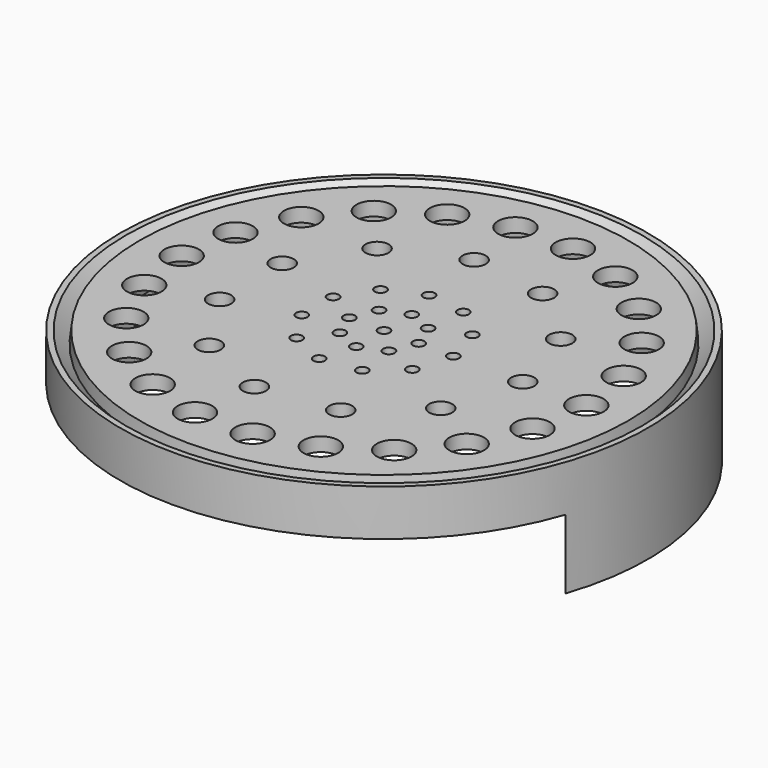
from build123d import *

# Parameters (mm, degrees)
F3_DEPTH = 144.93975
F4_R     = 3.175
F4_R_2   = 6.35
F4_R_3   = 9.525
F5_DEPTH = 63.501


with BuildPart() as f1:
    # F0 (on Front) → F1 (revolve)
    with BuildSketch(Plane.XZ):
        Polygon((-134.863547, 56.873039), (-141.76375, 63.5), (-144.93875, 63.5), (-144.93875, 0), (-137.309231, 0), (-134.987864, 46.427336), (-128.961906, 40.64), (-127.306591, 55.88), (0, 55.88), (0, 63.5), (-134.14375, 63.5), align=None)
    revolve(axis=Axis((0, 0, 31.75), (0, 0, -1)))

    # F2 (on Front) → F3 (cut, through all)
    with BuildSketch(Plane.XZ):
        Polygon((-137.16, 38.1), (-137.16, 2.984619), (-135.404231, 38.1), align=None)
        Polygon((-135.404231, 38.1), (-137.16, 2.984619), (-137.16, 0), (0, 0), (137.16, 0), (137.16, 38.1), (0, 38.1), align=None)
    extrude(amount=F3_DEPTH, mode=Mode.SUBTRACT)

    # F4 (on Top) → F5 (cut, through all)
    with BuildSketch(Plane.XY):
        with Locations((19.05, 0)):
            Circle(F4_R)
        with Locations((13.470384, 13.470384)):
            Circle(F4_R)
        with Locations((0, 19.05)):
            Circle(F4_R)
        with Locations((-13.470384, 13.470384)):
            Circle(F4_R)
        with Locations((-19.05, 0)):
            Circle(F4_R)
        with Locations((-13.470384, -13.470384)):
            Circle(F4_R)
        with Locations((0, -19.05)):
            Circle(F4_R)
        with Locations((13.470384, -13.470384)):
            Circle(F4_R)
        with Locations((38.1, 0)):
            Circle(F4_R)
        with Locations((32.05176, 20.598415)):
            Circle(F4_R)
        with Locations((15.827312, 34.656979)):
            Circle(F4_R)
        with Locations((76.2, 0)):
            Circle(F4_R_2)
        with Locations((-5.422195, 37.712197)):
            Circle(F4_R)
        with Locations((-24.950194, 28.794059)):
            Circle(F4_R)
        with Locations((-36.556682, 10.73401)):
            Circle(F4_R)
        with Locations((-36.556682, -10.73401)):
            Circle(F4_R)
        with Locations((-24.950194, -28.794059)):
            Circle(F4_R)
        with Locations((-5.422195, -37.712197)):
            Circle(F4_R)
        with Locations((15.827312, -34.656979)):
            Circle(F4_R)
        with Locations((32.05176, -20.598415)):
            Circle(F4_R)
        with Locations((64.103519, 41.19683)):
            Circle(F4_R_2)
        with Locations((31.654624, 69.313958)):
            Circle(F4_R_2)
        with Locations((-10.844391, 75.424394)):
            Circle(F4_R_2)
        with Locations((-49.900388, 57.588118)):
            Circle(F4_R_2)
        with Locations((-73.113365, 21.468021)):
            Circle(F4_R_2)
        with Locations((-73.113365, -21.468021)):
            Circle(F4_R_2)
        with Locations((-49.900388, -57.588118)):
            Circle(F4_R_2)
        with Locations((-10.844391, -75.424394)):
            Circle(F4_R_2)
        with Locations((31.654624, -69.313958)):
            Circle(F4_R_2)
        with Locations((64.103519, -41.19683)):
            Circle(F4_R_2)
        Circle(F4_R)
        with Locations((111.125, 0)):
            Circle(F4_R_3)
        with Locations((106.623657, 31.30753)):
            Circle(F4_R_3)
        with Locations((93.484299, 60.078711)):
            Circle(F4_R_3)
        with Locations((72.771399, 83.982671)):
            Circle(F4_R_3)
        with Locations((46.162993, 101.082855)):
            Circle(F4_R_3)
        with Locations((15.814736, 109.993908)):
            Circle(F4_R_3)
        with Locations((-15.814736, 109.993908)):
            Circle(F4_R_3)
        with Locations((-46.162993, 101.082855)):
            Circle(F4_R_3)
        with Locations((-72.771399, 83.982671)):
            Circle(F4_R_3)
        with Locations((-93.484299, 60.078711)):
            Circle(F4_R_3)
        with Locations((-106.623657, 31.30753)):
            Circle(F4_R_3)
        with Locations((-111.125, 0)):
            Circle(F4_R_3)
        with Locations((-106.623657, -31.30753)):
            Circle(F4_R_3)
        with Locations((-93.484299, -60.078711)):
            Circle(F4_R_3)
        with Locations((-72.771399, -83.982671)):
            Circle(F4_R_3)
        with Locations((-46.162993, -101.082855)):
            Circle(F4_R_3)
        with Locations((-15.814736, -109.993908)):
            Circle(F4_R_3)
        with Locations((15.814736, -109.993908)):
            Circle(F4_R_3)
        with Locations((46.162993, -101.082855)):
            Circle(F4_R_3)
        with Locations((72.771399, -83.982671)):
            Circle(F4_R_3)
        with Locations((93.484299, -60.078711)):
            Circle(F4_R_3)
        with Locations((106.623657, -31.30753)):
            Circle(F4_R_3)
    extrude(amount=F5_DEPTH, mode=Mode.SUBTRACT)


solid = f1.part
